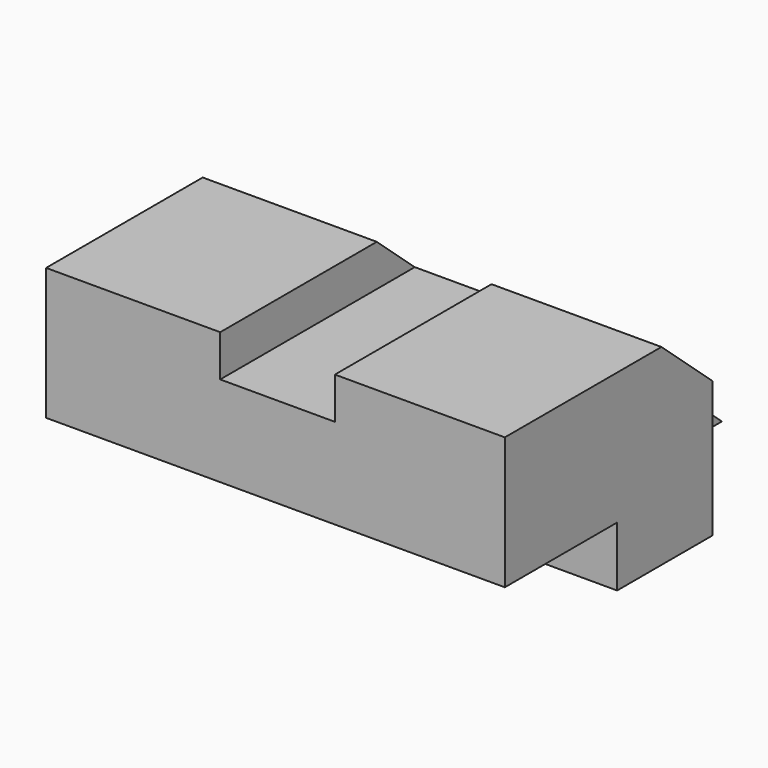
from build123d import *

# Parameters (mm, degrees)
F1_DEPTH = 50.8
F3_DEPTH = 53.8666486626
F4_W     = 34.3918725848
F4_H     = 43.6418196186
F5_DEPTH = 25.4
F6_R     = 4.7625
F7_DEPTH = 50.8


with BuildPart() as f1:
    # F0 (on Right) → F1 (new body, symmetric)
    with BuildSketch(Plane.YZ):
        Polygon((0, 29.2371641845), (0, 0), (31.0912281275, 0), (31.0912281275, -13.2636902854), (91.8474793434, -13.2636902854), (43.3565787971, 29.2371641845), align=None)
    extrude(amount=F1_DEPTH, both=True)

    # F2 (on face) → F3 (cut, through all)
    with BuildSketch(Plane.XZ):
        Polygon((13.1616968006, 29.2371641845), (0, 29.2371641845), (-12.2383031994, 29.2371641845), (-12.2383031994, 20.0262721628), (13.1616968006, 20.0262721628), align=None)
    extrude(amount=-F3_DEPTH, mode=Mode.SUBTRACT)

    # F4 (on face) → F5 (cut)
    with BuildSketch(Plane.YZ.offset(50.8)):
        with Locations((74.651543051, 8.5572195239)):
            Rectangle(F4_W, F4_H)
    extrude(amount=-F5_DEPTH, mode=Mode.SUBTRACT)

    # F6 (on Top) → F7 (cut, symmetric)
    with BuildSketch(Plane.XY):
        with Locations((-38.1, 83.9226793434)):
            Circle(F6_R)
        with Locations((-38.1, 68.0476793434)):
            Circle(F6_R)
        with Locations((0, 83.9226793434)):
            Circle(F6_R)
        with Locations((0, 68.0476793434)):
            Circle(F6_R)
    extrude(amount=F7_DEPTH, both=True, mode=Mode.SUBTRACT)


solid = f1.part
